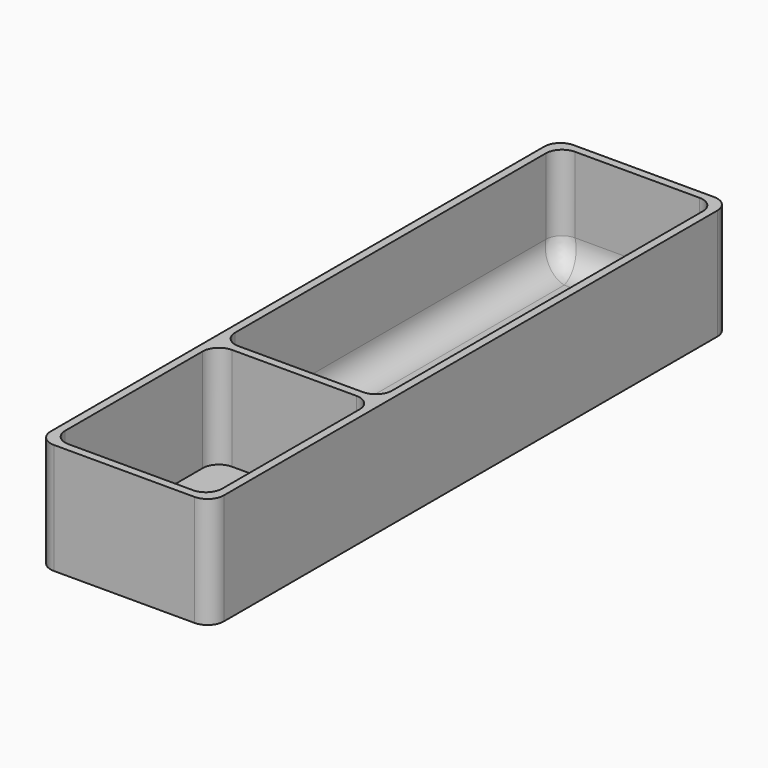
from build123d import *

# Parameters (mm, degrees)
SKETCH012_W    = 32
SKETCH012_H    = 120
PAD005_DEPTH   = 20.5
THICKNESS001_T = -1.5
SKETCH013_W    = 1.5
SKETCH013_H    = 20.5
PAD006_DEPTH   = 29
FILLET007_R    = 3
FILLET008_R    = 5


with BuildPart() as part:
    # Sketch012 → Pad005 (new body)
    with BuildSketch(Plane.XY):
        Rectangle(SKETCH012_W, SKETCH012_H)
    extrude(amount=PAD005_DEPTH)

    # Thickness001
    thickness001_openings = [part.faces().sort_by_distance(p)[0] for p in [
        (0, 0, 20.5),
    ]]
    offset(amount=THICKNESS001_T, openings=thickness001_openings)

    # Sketch013 (on DatumPlane) → Pad006 (join)
    with BuildSketch(Plane(origin=(-14.5, -20, 0), x_dir=(0, 1, 0), z_dir=(1, 0, 0))):
        with Locations((0, 10.25)):
            Rectangle(SKETCH013_W, SKETCH013_H)
    extrude(amount=PAD006_DEPTH)

    # Fillet007
    fillet007_edges = [part.edges().sort_by_distance(p)[0] for p in [
        (-14.5, 58.5, 11),
        (14.5, 58.5, 11),
        (16, 60, 10.25),
        (-16, 60, 10.25),
        (-14.5, -58.5, 11),
        (-16, -60, 10.25),
        (-14.5, -20.75, 11),
        (-14.5, -19.25, 11),
        (14.5, -19.25, 11),
        (14.5, -20.75, 11),
        (14.5, -58.5, 11),
        (16, -60, 10.25),
    ]]
    fillet(fillet007_edges, radius=FILLET007_R)

    # Fillet008
    fillet008_edges = [part.edges().sort_by_distance(p)[0] for p in [
        (0, 58.5, 1.5),
        (-13.62132, 57.62132, 1.5),
        (13.62132, 57.62132, 1.5),
        (-14.5, 19.625, 1.5),
        (14.5, 19.625, 1.5),
        (-13.62132, -18.37132, 1.5),
        (13.62132, -18.37132, 1.5),
        (0, -19.25, 1.5),
    ]]
    fillet(fillet008_edges, radius=FILLET008_R)


with BuildPart() as part_1:
    # Body004 placement: moved
    add(part.part.moved(Location((-22, 83, 14))))


with BuildPart() as part_2:
    # Body005 placement: moved
    add(part_1.part.moved(Location((32, 0, 0))))


solid = part_2.part
